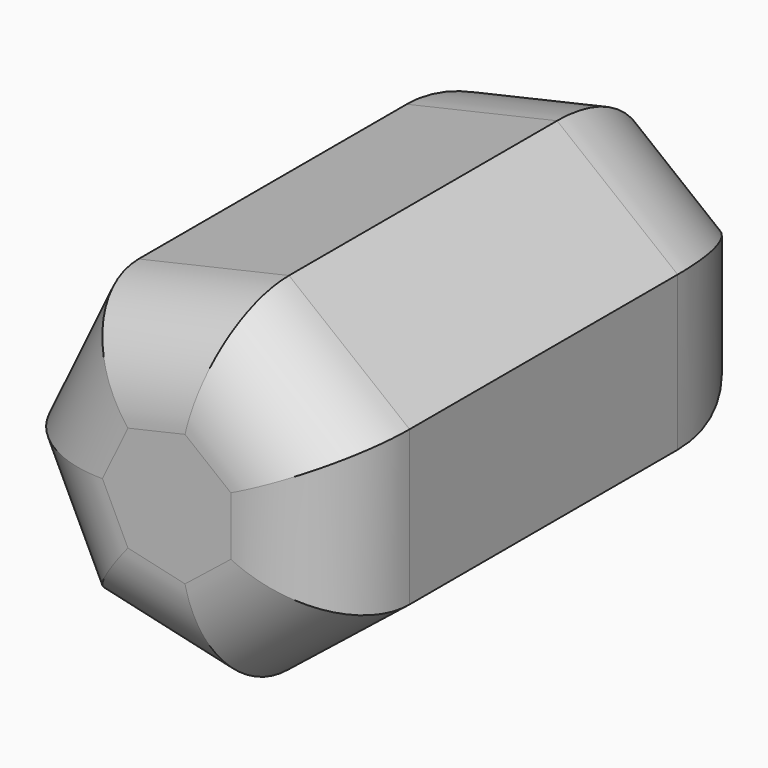
from build123d import *

# Parameters (mm, degrees)
F1_DEPTH = 163.398445
F2_R     = 27.403209
F3_R     = 43.528601


with BuildPart() as f1:
    # F0 (on Front) → F1 (new body)
    with BuildSketch(Plane.XZ):
        Polygon((23.431614, -21.278546), (23.431614, 21.278546), (-9.84086, 47.812458), (-51.330956, 38.342614), (-69.795786, 0), (-51.330956, -38.342614), (-9.84086, -47.812458), align=None)
    extrude(amount=F1_DEPTH)

    # F2
    f2_edges = [f1.edges().sort_by_distance(p)[0] for p in [
        (-30.585908, -163.398445, 43.077536),
        (-60.563371, -163.398445, 19.171307),
        (-60.563371, -163.398445, -19.171307),
        (-30.585908, -163.398445, -43.077536),
        (6.795377, -163.398445, 34.545502),
        (23.431614, -163.398445, 0),
        (6.795377, -163.398445, -34.545502),
    ]]
    fillet(f2_edges, radius=F2_R)

    # F3
    f3_edges = [f1.edges().sort_by_distance(p)[0] for p in [
        (-30.585908, 0, 43.077536),
        (6.795377, 0, 34.545502),
        (23.431614, 0, 0),
        (6.795377, 0, -34.545502),
        (-30.585908, 0, -43.077536),
        (-60.563371, 0, 19.171307),
        (-60.563371, 0, -19.171307),
    ]]
    fillet(f3_edges, radius=F3_R)


solid = f1.part
